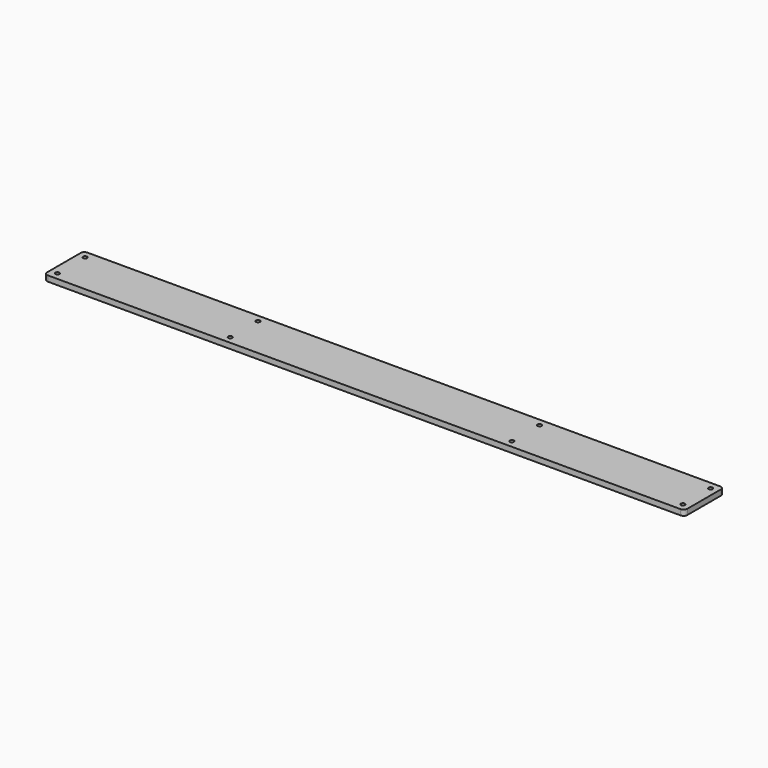
from build123d import *

# Parameters (mm, degrees)
SKETCH_R  = 1.1
PAD_DEPTH = 3


with BuildPart() as part:
    # Sketch → Pad (new body)
    with BuildSketch(Plane.XY):
        with BuildLine():
            Line((0, 0), (342.66, 0))
            ThreePointArc((342.66, 0), (344.074214, 0.585786), (344.66, 2))
            Line((344.66, 2), (344.66, 24.75))
            ThreePointArc((344.66, 24.75), (344.074214, 26.164214), (342.66, 26.75))
            Line((342.66, 26.75), (0, 26.75))
            ThreePointArc((0, 26.75), (-1.414214, 26.164214), (-2, 24.75))
            Line((-2, 24.75), (-2, 2))
            ThreePointArc((-2, 2), (-1.414214, 0.585786), (0, 0))
        make_face()
        with Locations((2, 22.75)):
            Circle(SKETCH_R, mode=Mode.SUBTRACT)
        with Locations((2, 4)):
            Circle(SKETCH_R, mode=Mode.SUBTRACT)
        with Locations((95.59, 22.75)):
            Circle(SKETCH_R, mode=Mode.SUBTRACT)
        with Locations((95.59, 4)):
            Circle(SKETCH_R, mode=Mode.SUBTRACT)
        with Locations((248.07, 22.75)):
            Circle(SKETCH_R, mode=Mode.SUBTRACT)
        with Locations((248.07, 4)):
            Circle(SKETCH_R, mode=Mode.SUBTRACT)
        with Locations((340.66, 22.75)):
            Circle(SKETCH_R, mode=Mode.SUBTRACT)
        with Locations((340.66, 4)):
            Circle(SKETCH_R, mode=Mode.SUBTRACT)
    extrude(amount=PAD_DEPTH)


solid = part.part
